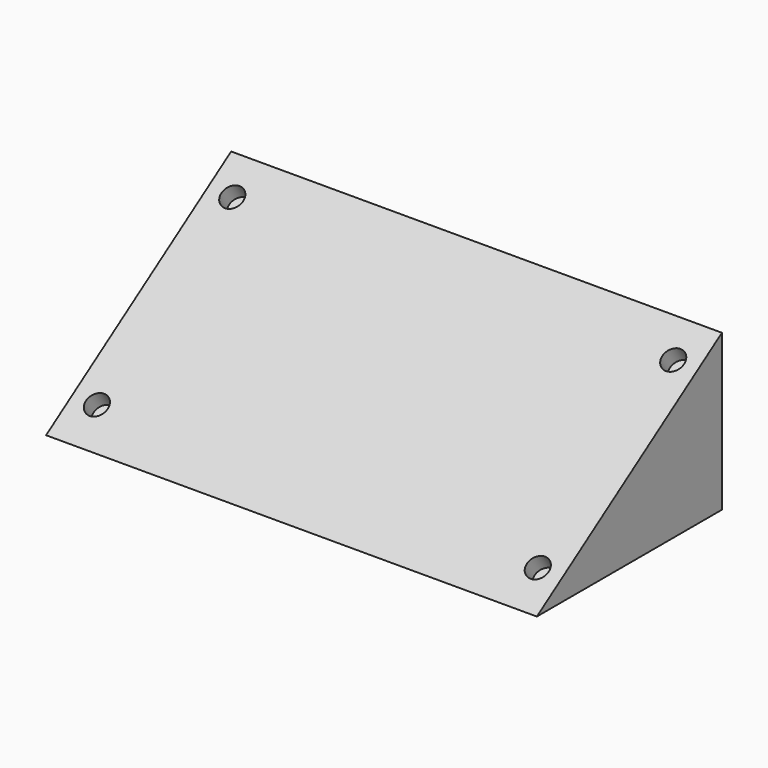
from build123d import *

# Parameters (mm, degrees)
F1_DEPTH = 31.5
F2_R     = 0.7
F3_DEPTH = 1.1


with BuildPart() as f1:
    # F0 (on Right) → F1 (new body)
    with BuildSketch(Plane.YZ):
        Polygon((14.846212, 0), (14.846212, 10), (0, 0), align=None)
    extrude(amount=F1_DEPTH)

    # F2 (on face) → F3 (cut)
    with BuildSketch(Plane(origin=(0, 0, 0), x_dir=(1, 0, 0), z_dir=(0, -0.558659, 0.829397))):
        with Locations((1.6, 15.6)):
            Circle(F2_R)
        with Locations((29.9, 15.6)):
            Circle(F2_R)
        with Locations((29.9, 2.5)):
            Circle(F2_R)
        with Locations((1.6, 2.5)):
            Circle(F2_R)
    extrude(amount=-F3_DEPTH, mode=Mode.SUBTRACT)


solid = f1.part
